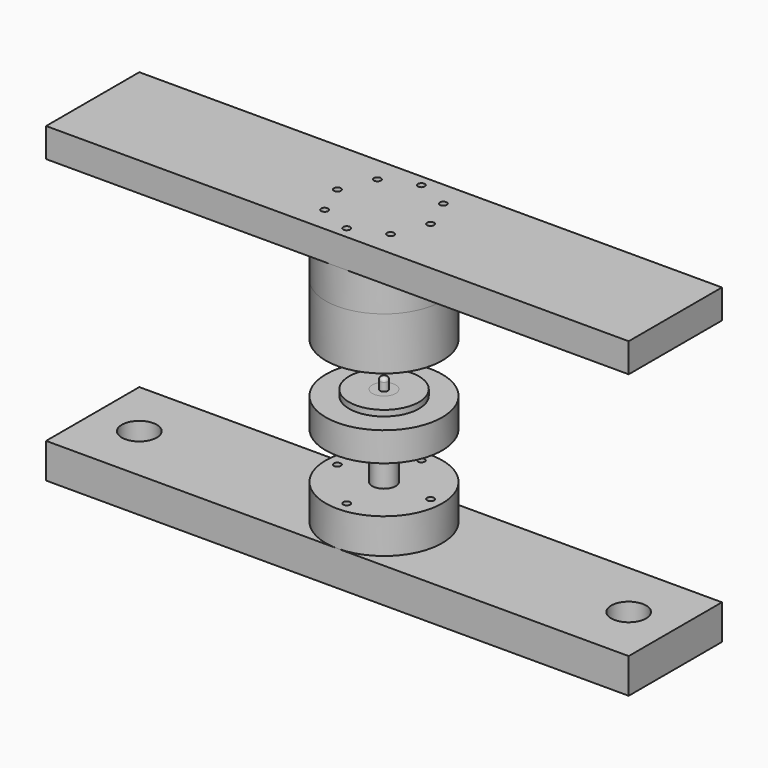
from build123d import *

# Parameters (mm, degrees)
F0_W      = 40
F0_H      = 30
F4_R      = 3
F5_DEPTH  = 90
F4_R_2    = 5.5
F4_R_3    = 2.5
F6_DEPTH  = 22
F4_R_4    = 3.15
F4_R_5    = 10
F7_DEPTH  = 30
F8_W      = 4.9999998882
F8_H      = 26
F12_R     = 3
F13_DEPTH = 45
F14_DEPTH = 25
F15_R     = 15
F16_DEPTH = 300


with BuildPart() as f1:
    # F0 (on Front) → F1 (revolve)
    with BuildSketch(Plane.XZ):
        Polygon((-10, 0), (-30, 0), (-30, -5), (-50, -5), (-50, -30), (-10, -30), align=None)
    revolve(axis=Axis((0, 0, -23.157916218), (0, 0, 1)))


with BuildPart() as f2:
    # F0 (on Front) → F2 (revolve)
    with BuildSketch(Plane.XZ):
        with BuildLine():
            Line((-3.5, 0), (-10, 0))
            Line((-10, 0), (-10, -30))
            Line((-10, -30), (-10, -70))
            Line((-10, -70), (-10, -100))
            Line((-10, -100), (0, -100))
            Line((0, -100), (0, 10))
            Line((0, 10), (-0.5, 10))
            ThreePointArc((-0.5, 10), (-2.6213203436, 9.1213203436), (-3.5, 7))
            Line((-3.5, 7), (-3.5, 0))
        make_face()
    revolve(axis=Axis((0, 0, -23.157916218), (0, 0, 1)))


with BuildPart() as f3:
    # F0 (on Front) → F3 (revolve)
    with BuildSketch(Plane.XZ):
        with Locations((-30, -85)):
            Rectangle(F0_W, F0_H)
    revolve(axis=Axis((0, 0, -23.157916218), (0, 0, 1)))


with BuildPart() as f5_tool:
    # F4 (on face) → F5 (new body)
    with BuildSketch(Plane(origin=(0, 0, -100), x_dir=(1, 0, 0), z_dir=(0, 0, -1))):
        with Locations((0, -40)):
            Circle(F4_R)
        with Locations((-40, 0)):
            Circle(F4_R)
        with Locations((0, 40)):
            Circle(F4_R)
        with Locations((40, 0)):
            Circle(F4_R)
    extrude(amount=-F5_DEPTH)


with BuildPart() as f1_1:
    add(f1.part)

    # F5: cut by f5_tool
    add(f5_tool.part, mode=Mode.SUBTRACT)


with BuildPart() as f3_1:
    add(f3.part)

    # F5: cut by f5_tool
    add(f5_tool.part, mode=Mode.SUBTRACT)

    # F4 (on face) → F6 (cut)
    with BuildSketch(Plane(origin=(0, 0, -100), x_dir=(1, 0, 0), z_dir=(0, 0, -1))):
        with Locations((-40, 0)):
            Circle(F4_R_2)
        with Locations((-40, 0)):
            Circle(F4_R, mode=Mode.SUBTRACT)
        with Locations((0, -40)):
            Circle(F4_R_2)
        with Locations((0, -40)):
            Circle(F4_R, mode=Mode.SUBTRACT)
        with Locations((40, 0)):
            Circle(F4_R_2)
        with Locations((40, 0)):
            Circle(F4_R, mode=Mode.SUBTRACT)
        with Locations((0, 40)):
            Circle(F4_R_2)
        with Locations((0, 40)):
            Circle(F4_R, mode=Mode.SUBTRACT)
        with Locations((28.2842712475, -28.2842712475)):
            Circle(F4_R)
        with Locations((-28.2842712475, -28.2842712475)):
            Circle(F4_R)
        with Locations((-28.2842712475, -28.2842712475)):
            Circle(F4_R_3, mode=Mode.SUBTRACT)
        with Locations((-28.2842712475, 28.2842712475)):
            Circle(F4_R)
        with Locations((28.2842712475, 28.2842712475)):
            Circle(F4_R)
        with Locations((28.2842712475, 28.2842712475)):
            Circle(F4_R_3, mode=Mode.SUBTRACT)
    extrude(amount=-F6_DEPTH, mode=Mode.SUBTRACT)


with BuildPart() as f7:
    # F4 (on face) → F7 (new body)
    with BuildSketch(Plane(origin=(0, 0, -100), x_dir=(1, 0, 0), z_dir=(0, 0, -1))):
        with BuildLine():
            Line((-250, 50), (-250, -50))
            Line((-250, -50), (0, -50))
            ThreePointArc((0, -50), (-50, 0), (0, 50))
            Line((0, 50), (-250, 50))
        make_face()
        with BuildLine():
            ThreePointArc((50, 0), (35.3553390593, -35.3553390593), (0, -50))
            Line((0, -50), (250, -50))
            Line((250, -50), (250, 50))
            Line((250, 50), (0, 50))
            ThreePointArc((0, 50), (35.3553390593, 35.3553390593), (50, 0))
        make_face()
        with BuildLine():
            ThreePointArc((0, 50), (-50, 0), (0, -50))
            ThreePointArc((0, -50), (35.3553390593, -35.3553390593), (50, 0))
            ThreePointArc((50, 0), (35.3553390593, 35.3553390593), (0, 50))
        make_face()
        with Locations((-28.2842712475, -28.2842712475)):
            Circle(F4_R, mode=Mode.SUBTRACT)
        with Locations((0, -40)):
            Circle(F4_R_2, mode=Mode.SUBTRACT)
        with Locations((28.2842712475, -28.2842712475)):
            Circle(F4_R_4, mode=Mode.SUBTRACT)
        with Locations((-40, 0)):
            Circle(F4_R_2, mode=Mode.SUBTRACT)
        with Locations((-28.2842712475, 28.2842712475)):
            Circle(F4_R_4, mode=Mode.SUBTRACT)
        Circle(F4_R_5, mode=Mode.SUBTRACT)
        with Locations((40, 0)):
            Circle(F4_R_2, mode=Mode.SUBTRACT)
        with Locations((28.2842712475, 28.2842712475)):
            Circle(F4_R, mode=Mode.SUBTRACT)
        with Locations((0, 40)):
            Circle(F4_R_2, mode=Mode.SUBTRACT)
        with Locations((0, -40)):
            Circle(F4_R_2)
        with Locations((0, -40)):
            Circle(F4_R, mode=Mode.SUBTRACT)
        with Locations((0, -40)):
            Circle(F4_R)
        with Locations((40, 0)):
            Circle(F4_R_2)
        with Locations((40, 0)):
            Circle(F4_R, mode=Mode.SUBTRACT)
        with Locations((40, 0)):
            Circle(F4_R)
        with Locations((0, 40)):
            Circle(F4_R_2)
        with Locations((0, 40)):
            Circle(F4_R, mode=Mode.SUBTRACT)
        with Locations((0, 40)):
            Circle(F4_R)
        with Locations((-40, 0)):
            Circle(F4_R_2)
        with Locations((-40, 0)):
            Circle(F4_R, mode=Mode.SUBTRACT)
        with Locations((-40, 0)):
            Circle(F4_R)
    extrude(amount=F7_DEPTH)

    # F15 (on face) → F16 (cut)
    with BuildSketch(Plane.XY.offset(137.8772112727)):
        with Locations((210, 0)):
            Circle(F15_R)
        with Locations((-210, 0)):
            Circle(F15_R)
    extrude(amount=-F16_DEPTH, mode=Mode.SUBTRACT)


with BuildPart() as f9:
    # F8 (on Front) → F9 (revolve)
    with BuildSketch(Plane.XZ):
        Polygon((-4.9999998882, 32.8772112727), (-4.9999998882, 44.8772112727), (-4.9999998882, 70.8772112727), (-4.9999998882, 82.8772112727), (-14.9999996647, 82.8772112727), (-14.9999996647, 77.8772085905), (-10, 77.8772085905), (-10, 32.8772112727), align=None)
        with Locations((-2.4999999441, 57.8772112727)):
            Rectangle(F8_W, F8_H)
    revolve(axis=Axis((0, 0, -14.5613943636), (0, 0, 1)))


with BuildPart() as f10:
    # F8 (on Front) → F10 (revolve)
    with BuildSketch(Plane.XZ):
        Polygon((-30, 32.8772112727), (-10, 32.8772112727), (-10, 77.8772085905), (-14.9999996647, 77.8772085905), (-14.9999996647, 82.8772112727), (-50, 82.8772112727), (-50, 37.8772112727), (-30, 37.8772112727), align=None)
    revolve(axis=Axis((0, 0, -14.5613943636), (0, 0, 1)))


with BuildPart() as f11:
    # F8 (on Front) → F11 (revolve)
    with BuildSketch(Plane.XZ):
        Polygon((-50, 82.8772112727), (-14.9999996647, 82.8772112727), (-14.9999996647, 97.8772112727), (0, 97.8772112727), (0, 112.8772112727), (-50, 112.8772112727), align=None)
    revolve(axis=Axis((0, 0, 105.3772112727), (0, 0, 1)))


with BuildPart() as f13_tool:
    # F12 (on face) → F13 (new body)
    with BuildSketch(Plane.XY.offset(112.8772112727)):
        with Locations((-28.2842712475, -28.2842712475)):
            Circle(F12_R)
        with Locations((28.2842712475, -28.2842712475)):
            Circle(F12_R)
        with Locations((28.2842712475, 28.2842712475)):
            Circle(F12_R)
        with Locations((-28.2842712475, 28.2842712475)):
            Circle(F12_R)
        with Locations((-40, 0)):
            Circle(F12_R)
        with Locations((0, -40)):
            Circle(F12_R)
        with Locations((40, 0)):
            Circle(F12_R)
        with Locations((0, 40)):
            Circle(F12_R)
    extrude(amount=-F13_DEPTH)


with BuildPart() as f10_1:
    add(f10.part)

    # F13: cut by f13_tool
    add(f13_tool.part, mode=Mode.SUBTRACT)


with BuildPart() as f11_1:
    add(f11.part)

    # F13: cut by f13_tool
    add(f13_tool.part, mode=Mode.SUBTRACT)


with BuildPart() as f14:
    # F12 (on face) → F14 (new body)
    with BuildSketch(Plane.XY.offset(112.8772112727)):
        with BuildLine():
            ThreePointArc((-2.072e-07, -50), (-50, 1.71e-07), (1.348e-07, 50))
            Line((1.348e-07, 50), (-250, 50))
            Line((-250, 50), (-250, -50))
            Line((-250, -50), (-2.072e-07, -50))
        make_face()
        with BuildLine():
            Line((250, -50), (250, 50))
            Line((250, 50), (1.348e-07, 50))
            ThreePointArc((1.348e-07, 50), (35.355339107, 35.3553390117), (50, 0))
            ThreePointArc((50, 0), (35.3553389861, -35.3553391326), (-2.072e-07, -50))
            Line((-2.072e-07, -50), (250, -50))
        make_face()
        with BuildLine():
            ThreePointArc((50, 0), (35.355339107, 35.3553390117), (1.348e-07, 50))
            ThreePointArc((1.348e-07, 50), (-50, 1.71e-07), (-2.072e-07, -50))
            ThreePointArc((-2.072e-07, -50), (35.3553389861, -35.3553391326), (50, 0))
        make_face()
        with Locations((-28.2842712475, -28.2842712475)):
            Circle(F12_R, mode=Mode.SUBTRACT)
        with Locations((0, -40)):
            Circle(F12_R, mode=Mode.SUBTRACT)
        with Locations((28.2842712475, -28.2842712475)):
            Circle(F12_R, mode=Mode.SUBTRACT)
        with Locations((-40, 0)):
            Circle(F12_R, mode=Mode.SUBTRACT)
        with Locations((-28.2842712475, 28.2842712475)):
            Circle(F12_R, mode=Mode.SUBTRACT)
        with Locations((40, 0)):
            Circle(F12_R, mode=Mode.SUBTRACT)
        with Locations((28.2842712475, 28.2842712475)):
            Circle(F12_R, mode=Mode.SUBTRACT)
        with Locations((0, 40)):
            Circle(F12_R, mode=Mode.SUBTRACT)
    extrude(amount=F14_DEPTH)


solid = Compound([f2.part, f1_1.part, f3_1.part, f7.part, f9.part, f10_1.part, f11_1.part, f14.part])
